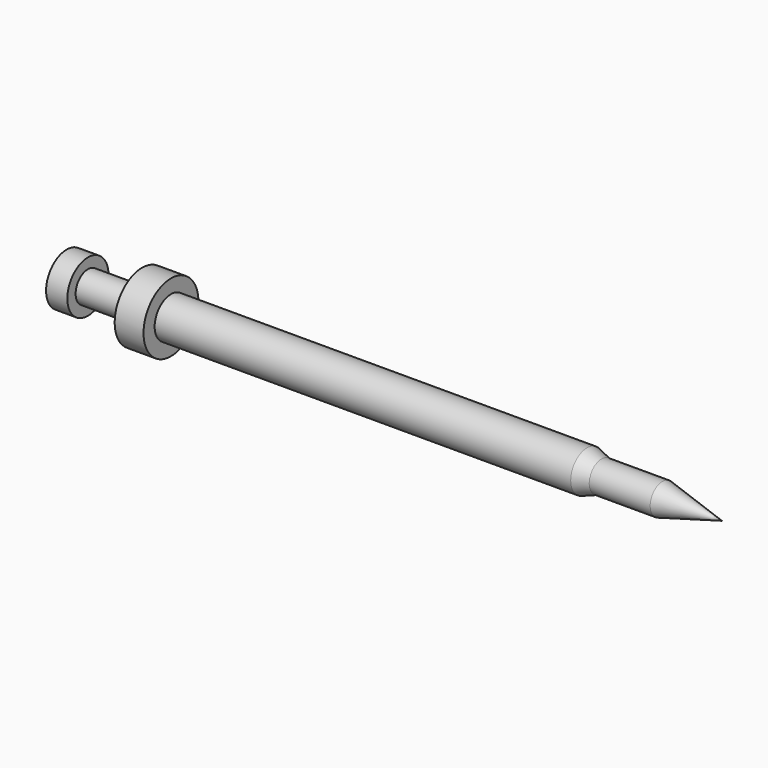
from build123d import *


with BuildPart() as f1:
    # F0 (on Front) → F1 (revolve)
    with BuildSketch(Plane.XZ):
        Polygon((-105.0036, 8.255), (-105.0036, 0), (105.0036, 0), (85.9536, 4.9276), (-98.1964, 4.9276), (-98.1964, 8.255), align=None)
    revolve(axis=Axis((0, 0, 0), (-1, 0, 0)))


with BuildPart() as f3:
    # F2 (on Front) → F3 (revolve)
    with BuildSketch(Plane.XZ):
        Polygon((-80.8228, 10.9982), (-80.8228, 0), (80.8228, 0), (61.7728, 6.5405), (-71.5772, 6.5405), (-71.5772, 10.9982), align=None)
    revolve(axis=Axis((0, 0, 0), (-1, 0, 0)))


solid = Compound([f1.part, f3.part])
